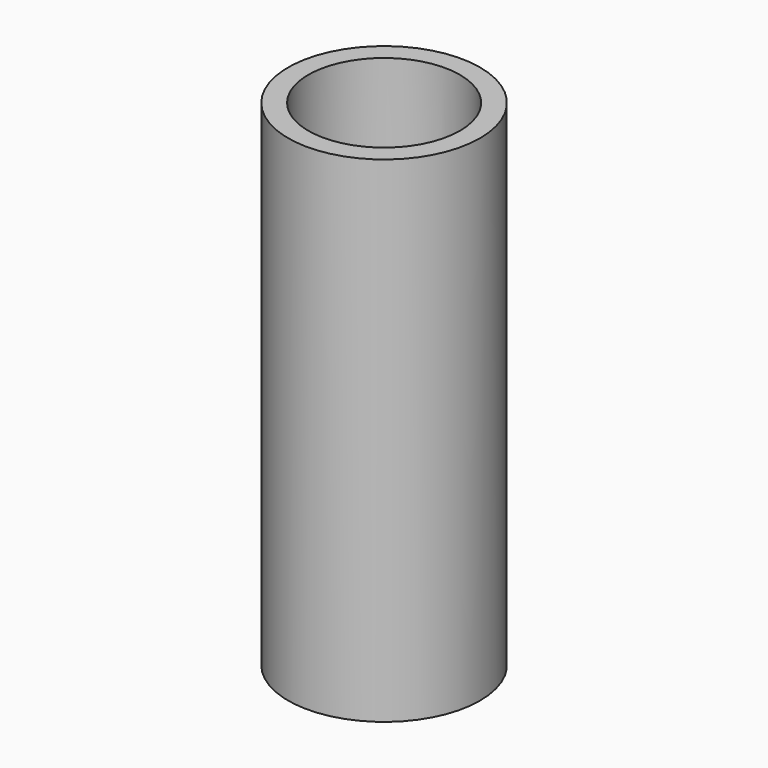
from build123d import *

# Parameters (mm, degrees)
F3_DEPTH = 19.05


with BuildPart() as f1:
    # F0 (on Front) → F1 (revolve)
    with BuildSketch(Plane.XZ):
        with BuildLine():
            Line((7.874, -20.32), (7.874, 20.32))
            Line((7.874, 20.32), (6.223, 20.32))
            Line((6.223, 20.32), (6.223, 13.0673574546))
            Line((6.223, 13.0673574546), (6.223, 12.827))
            ThreePointArc((6.223, 12.827), (6.4089871939, 12.3779871939), (6.858, 12.192))
            Line((6.858, 12.192), (6.858, -20.32))
            Line((6.858, -20.32), (7.874, -20.32))
        make_face()
    revolve(axis=Axis((0, 0, -2.1967927045), (0, 0, -1)))

    # F2 (on Top) → F3 (join, symmetric)
    with BuildSketch(Plane.XY):
        with BuildLine():
            Line((0.8456389311, -2.2599698667), (-6.1631355014, -3.0079768601))
            ThreePointArc((-6.1631355014, -3.0079768601), (-6.0475003842, -3.2341773457), (-5.9235668092, -3.4559398515))
            Line((-5.9235668092, -3.4559398515), (0.8995487584, -2.7651012659))
            Line((0.8995487584, -2.7651012659), (0.8456389311, -2.2599698667))
        make_face()
        with BuildLine():
            ThreePointArc((5.6865521256, -3.8334434812), (5.8246299338, -3.6202002893), (5.9547151099, -3.401989412))
            Line((5.9547151099, -3.401989412), (1.9448735611, 2.1615827097))
            Line((1.9448735611, 2.1615827097), (1.5343718508, 1.8623297301))
            Line((1.5343718508, 1.8623297301), (5.6865521256, -3.8334434812))
        make_face()
        with BuildLine():
            Line((-2.3800107819, 0.3976401366), (0.4765833759, 6.8414203413))
            ThreePointArc((0.4765833759, 6.8414203413), (0.2228704504, 6.8543776349), (-0.0311483008, 6.8579292635))
            Line((-0.0311483008, 6.8579292635), (-2.8444223195, 0.6035185562))
            Line((-2.8444223195, 0.6035185562), (-2.3800107819, 0.3976401366))
        make_face()
    extrude(amount=F3_DEPTH, both=True)

    # F4 (on Front) → F5 (revolve, cut)
    with BuildSketch(Plane.XZ):
        Polygon((0, -20.32), (6.858, -20.32), (6.858, -13.97), (0, -7.112), align=None)
        Polygon((0, 20.32), (0, 12.827), (0, 6.604), (6.223, 12.827), (6.223, 20.32), align=None)
    revolve(axis=Axis((0, 0, -2.1967927045), (0, 0, -1)), mode=Mode.SUBTRACT)


solid = f1.part
